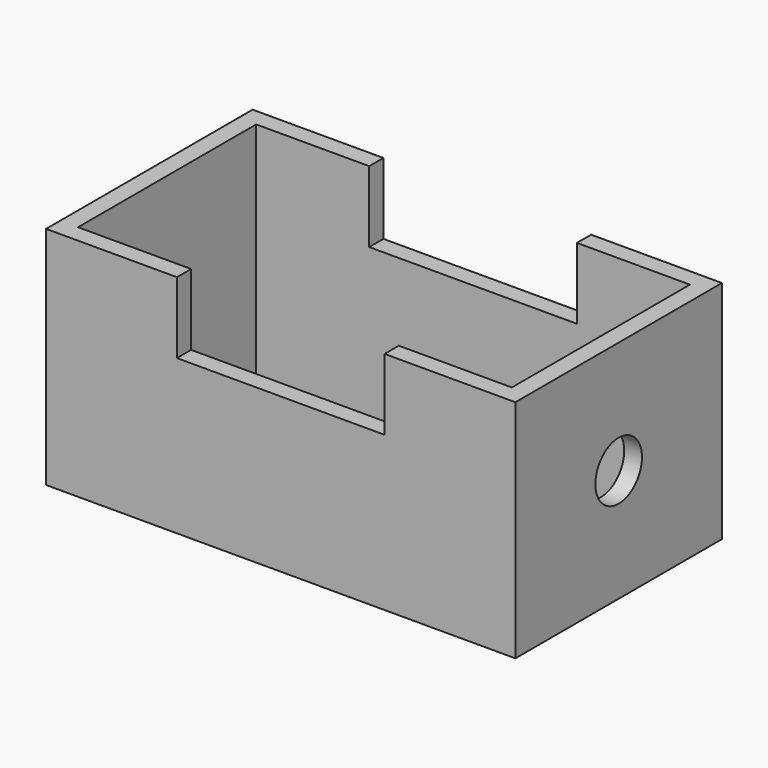
from build123d import *

# Parameters (mm, degrees)
F0_W     = 132.152318
F0_H     = 72.699182
F0_W_2   = 122.152318
F0_H_2   = 62.699182
F1_DEPTH = 63.5
F2_R     = 8.194556
F3_DEPTH = 132.153319
F4_W     = 58.48376
F4_H     = 20.056372
F5_DEPTH = 72.700182


with BuildPart() as f1:
    # F0 (on Top) → F1 (new body)
    with BuildSketch(Plane.XY):
        Rectangle(F0_W, F0_H)
        Rectangle(F0_W_2, F0_H_2, mode=Mode.SUBTRACT)
    extrude(amount=F1_DEPTH)

    # F2 (on face) → F3 (cut, through all)
    with BuildSketch(Plane.YZ.offset(66.076159)):
        with Locations((0, 31.75)):
            Circle(F2_R)
    extrude(amount=-F3_DEPTH, mode=Mode.SUBTRACT)

    # F4 (on face) → F5 (cut, through all)
    with BuildSketch(Plane.XZ.offset(36.349591)):
        with Locations((0, 53.471814)):
            Rectangle(F4_W, F4_H)
    extrude(amount=-F5_DEPTH, mode=Mode.SUBTRACT)


solid = f1.part
